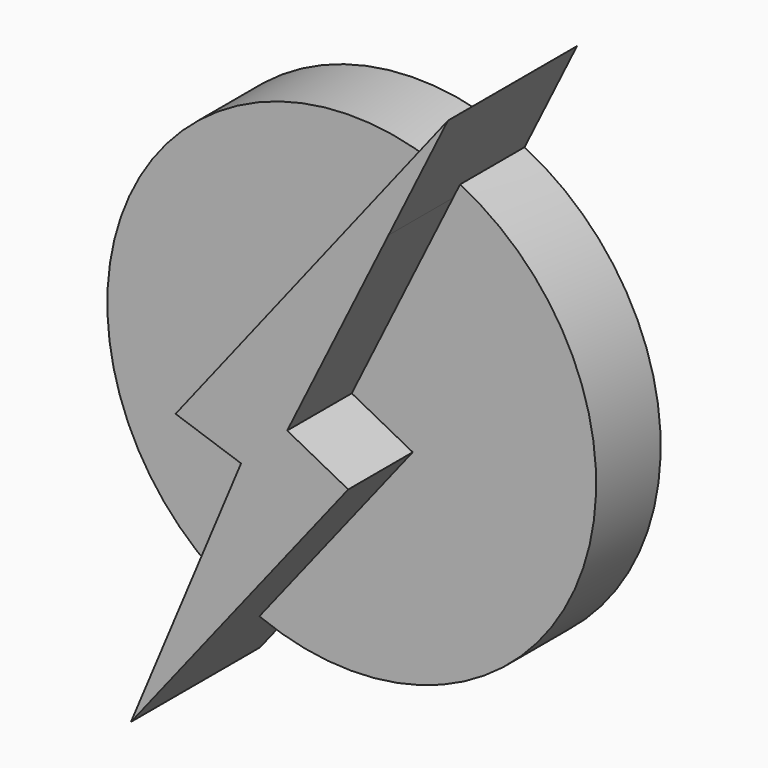
from build123d import *

# Parameters (mm, degrees)
F1_DEPTH = 25.4
F2_R     = 38.4815377022
F3_DEPTH = 12.7


with BuildPart() as f1:
    # F0 (on Front) → F1 (new body)
    with BuildSketch(Plane.XZ):
        with BuildLine():
            Line((0, 0), (15.9522042852, 32.2736765923))
            ThreePointArc((15.9522042852, 32.2736765923), (13.9070635798, 33.2062735778), (11.8077100935, 34.0094252331))
            Line((11.8077100935, 34.0094252331), (-17.5717417151, -3.397203749))
            Line((-17.5717417151, -3.397203749), (-7.2629870847, -6.9115520455))
            Line((-7.2629870847, -6.9115520455), (-17.5216759613, -31.4492272377))
            ThreePointArc((-17.5216759613, -31.4492272377), (-15.2654291044, -32.6041361885), (-12.933512927, -33.5974294509))
            Line((-12.933512927, -33.5974294509), (9.6058854833, -5.0372327678))
            Line((9.6058854833, -5.0372327678), (0, 0))
        make_face()
        with BuildLine():
            Line((-24.6004387736, -48.3808629215), (-12.933512927, -33.5974294509))
            ThreePointArc((-12.933512927, -33.5974294509), (-15.2654291044, -32.6041361885), (-17.5216759613, -31.4492272377))
            Line((-17.5216759613, -31.4492272377), (-24.6004387736, -48.3808629215))
        make_face()
        with BuildLine():
            ThreePointArc((11.8077100935, 34.0094252331), (13.9070635798, 33.2062735778), (15.9522042852, 32.2736765923))
            Line((15.9522042852, 32.2736765923), (25.3033079207, 51.1923469603))
            Line((25.3033079207, 51.1923469603), (11.8077100935, 34.0094252331))
        make_face()
    extrude(amount=F1_DEPTH)

    # F2 (on Front) → F3 (join)
    with BuildSketch(Plane.XZ):
        Circle(F2_R)
    extrude(amount=F3_DEPTH)


solid = f1.part
